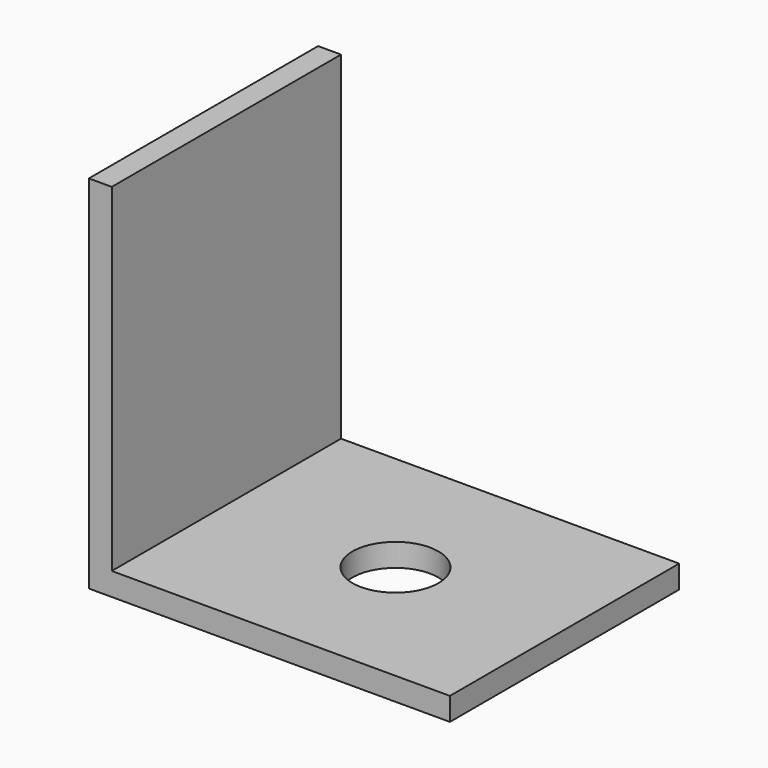
from build123d import *

# Parameters (mm, degrees)
F0_W     = 59
F0_H     = 50
F0_R     = 7.5
F1_DEPTH = 4
F2_W     = 4
F2_H     = 50
F3_DEPTH = 63


with BuildPart() as f1:
    # F0 (on Top) → F1 (new body)
    with BuildSketch(Plane.XY):
        Rectangle(F0_W, F0_H)
        Circle(F0_R, mode=Mode.SUBTRACT)
    extrude(amount=F1_DEPTH)

    # F2 (on face) → F3 (join)
    with BuildSketch(Plane(origin=(0, 0, 0), x_dir=(1, 0, 0), z_dir=(0, 0, -1))):
        with Locations((-31.5, 0)):
            Rectangle(F2_W, F2_H)
    extrude(amount=-F3_DEPTH)


solid = f1.part
